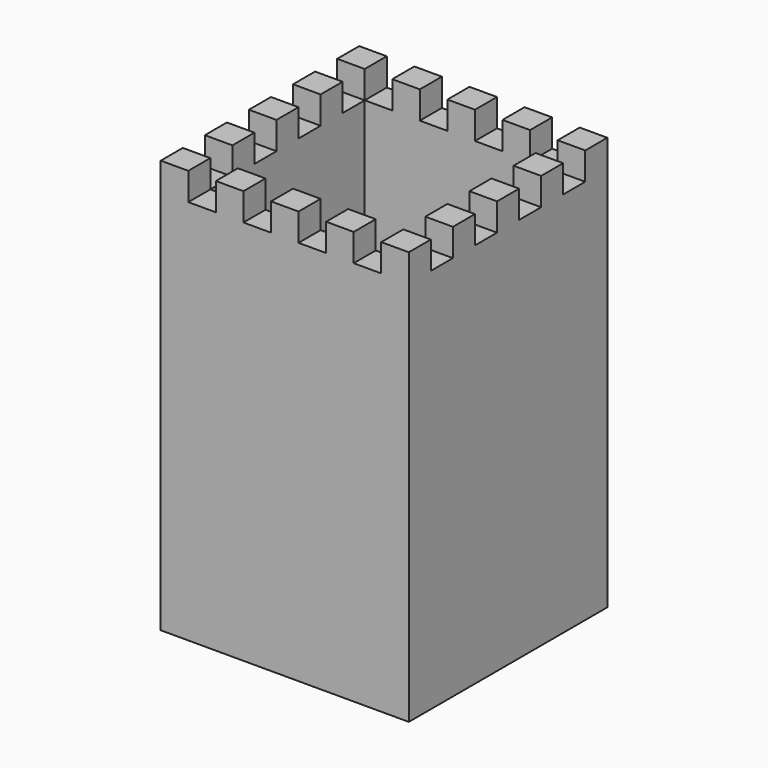
from build123d import *

# Parameters (mm, degrees)
BOX001_W         = 10
BOX001_H         = 110
BOX001_DEPTH     = 10
ARRAY001_X_COUNT = 4
ARRAY001_X_PITCH = 20
BOX_W            = 110
BOX_H            = 10
BOX_DEPTH        = 10
ARRAY_Y_COUNT    = 4
ARRAY_Y_PITCH    = 20
BOX003_W         = 70
BOX003_H         = 70
BOX003_DEPTH     = 130
BOX002_W         = 90
BOX002_H         = 90
BOX002_DEPTH     = 150


with BuildPart() as array001:
    # Box001 → Box001 (new body)
    with BuildSketch(Plane.XY):
        with Locations((5, 55)):
            Rectangle(BOX001_W, BOX001_H)
    extrude(amount=BOX001_DEPTH)

    # Array001 X: Array001 ×4


with BuildPart() as array001_1:
    add(array001.part)
    with Locations(*[(i * ARRAY001_X_PITCH, 0, 0) for i in range(1, ARRAY001_X_COUNT)]):
        add(array001.part)


with BuildPart() as array001_2:
    # Array001 placement: moved
    add(array001_1.part.moved(Location((20, -20, 0))))


with BuildPart() as fusion:
    # Box → Box (new body)
    with BuildSketch(Plane.XY):
        with Locations((55, 5)):
            Rectangle(BOX_W, BOX_H)
    extrude(amount=BOX_DEPTH)

    # Array Y: Fusion ×4


with BuildPart() as fusion_1:
    add(fusion.part)
    with Locations(*[(0, i * ARRAY_Y_PITCH, 0) for i in range(1, ARRAY_Y_COUNT)]):
        add(fusion.part)

    # Fusion: union Array001
    add(array001_2.part)


with BuildPart() as fusion_2:
    # Fusion placement: moved
    add(fusion_1.part.moved(Location((-10, 10, 140))))


with BuildPart() as cub003:
    # Box003 → Box003 (new body)
    with BuildSketch(Plane(origin=(10, 10, 20), x_dir=(1, 0, 0), z_dir=(0, 0, 1))):
        with Locations((35, 35)):
            Rectangle(BOX003_W, BOX003_H)
    extrude(amount=BOX003_DEPTH)


with BuildPart() as cut001:
    # Box002 → Box002 (new body)
    with BuildSketch(Plane.XY):
        with Locations((45, 45)):
            Rectangle(BOX002_W, BOX002_H)
    extrude(amount=BOX002_DEPTH)

    # Cut: cut Cub003
    add(cub003.part, mode=Mode.SUBTRACT)

    # Cut001: cut Fusion
    add(fusion_2.part, mode=Mode.SUBTRACT)


solid = cut001.part
